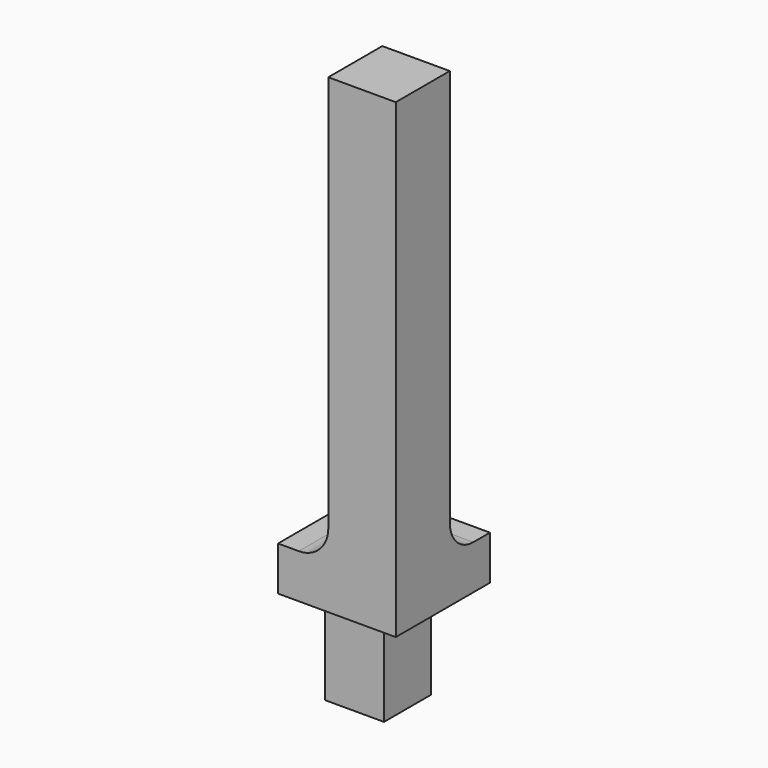
from build123d import *

# Parameters (mm, degrees)
F0_W      = 50.8
F0_H      = 50.8
F1_DEPTH  = 254
F3_DEPTH  = 50.801
F5_DEPTH  = 50.801
F6_R      = 12.7
F7_DEPTH  = 25.4
F9_DEPTH  = 50.8
F10_R     = 4.8895
F11_DEPTH = 69.851


with BuildPart() as f1:
    # F0 (on Top) → F1 (new body)
    with BuildSketch(Plane.XY):
        with Locations((-25.4, 25.4)):
            Rectangle(F0_W, F0_H)
    extrude(amount=F1_DEPTH)

    # F2 (on face) → F3 (cut, through all)
    with BuildSketch(Plane(origin=(-50.8, 0, 0), x_dir=(0, -1, 0), z_dir=(-1, 0, 0))):
        with BuildLine():
            Line((-50.8, 254), (-50.8, 69.85))
            Line((-50.8, 69.85), (-41.8197438789, 69.85))
            ThreePointArc((-41.8197438789, 69.85), (-32.8394877579, 73.5697438789), (-29.1197438789, 82.55))
            Line((-29.1197438789, 82.55), (-29.1197438789, 254))
            Line((-29.1197438789, 254), (-50.8, 254))
        make_face()
    extrude(amount=-F3_DEPTH, mode=Mode.SUBTRACT)

    # F4 (on face) → F5 (cut, through all)
    with BuildSketch(Plane(origin=(0, 50.8, 0), x_dir=(-1, 0, 0), z_dir=(0, 1, 0))):
        with BuildLine():
            ThreePointArc((29.1197438789, 82.55), (32.8394877579, 73.5697438789), (41.8197438789, 69.85))
            Line((41.8197438789, 69.85), (50.8, 69.85))
            Line((50.8, 69.85), (50.8, 254))
            Line((50.8, 254), (29.1197438789, 254))
            Line((29.1197438789, 254), (29.1197438789, 82.55))
        make_face()
    extrude(amount=-F5_DEPTH, mode=Mode.SUBTRACT)

    # F6 (on face) → F7 (cut)
    with BuildSketch(Plane.XY.offset(69.85)):
        with Locations((-38.1, 38.1)):
            Circle(F6_R)
    extrude(amount=F7_DEPTH, mode=Mode.SUBTRACT)

    # F8 (on face) → F9 (cut)
    with BuildSketch(Plane(origin=(0, 0, 0), x_dir=(1, 0, 0), z_dir=(0, 0, -1))):
        Polygon((0, -25.4), (0, 0), (-25.4, 0), (-50.8, 0), (-50.8, -25.4), (-25.4, -25.4), (-25.4, -50.8), (0, -50.8), align=None)
    extrude(amount=-F9_DEPTH, mode=Mode.SUBTRACT)

    # F10 (on face) → F11 (cut, through all)
    with BuildSketch(Plane.XY.offset(69.85)):
        with Locations((-38.1, 38.1)):
            Circle(F10_R)
    extrude(amount=-F11_DEPTH, mode=Mode.SUBTRACT)


solid = f1.part
